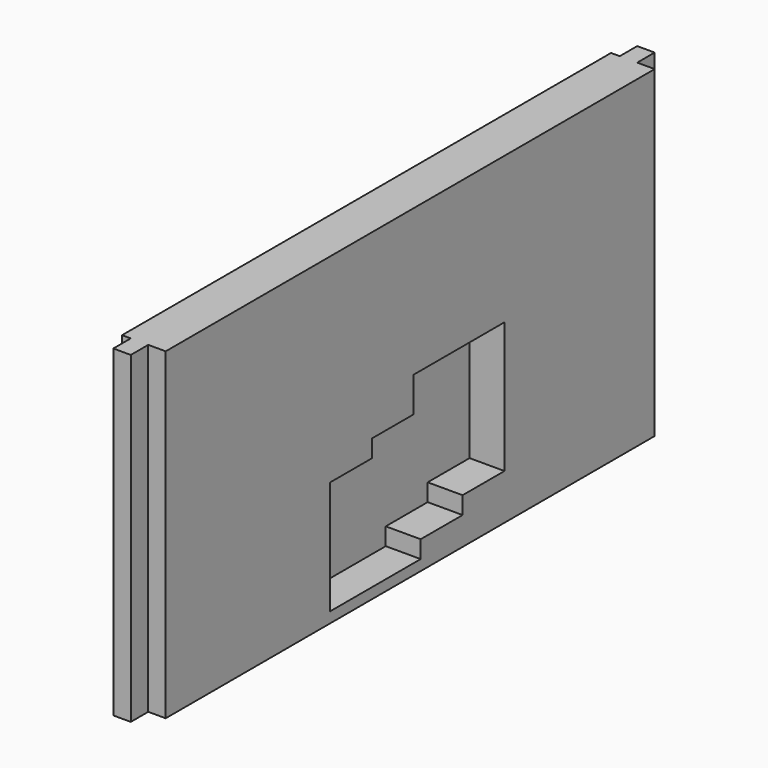
from build123d import *

# Parameters (mm, degrees)
F0_W     = 95.25
F0_H     = 46.99
F1_DEPTH = 2.54
F2_W     = 88.9
F2_H     = 46.99
F3_DEPTH = 2.54
F4_W     = 88.9
F4_H     = 46.99
F5_DEPTH = 1.27


with BuildPart() as f1:
    # F0 (on Right) → F1 (new body)
    with BuildSketch(Plane.YZ):
        with Locations((-3.81, -0.0466339131)):
            Rectangle(F0_W, F0_H)
        Polygon((-3.175, -2.9486645812), (-3.175, 2.1313354188), (13.335, 2.1313354188), (13.335, -16.9186645812), (5.715, -16.9186645812), (5.715, -19.4586645812), (-1.905, -19.4586645812), (-1.905, -21.9986645812), (-18.415, -21.9986645812), (-18.415, -5.4886645812), (-10.795, -5.4886645812), (-10.795, -2.9486645812), align=None, mode=Mode.SUBTRACT)
    extrude(amount=F1_DEPTH)

    # F2 (on face) → F3 (join)
    with BuildSketch(Plane.YZ.offset(2.54)):
        with Locations((-3.81, -0.0466339131)):
            Rectangle(F2_W, F2_H)
        Polygon((-18.415, -21.9986645812), (-18.415, -5.4886645812), (-10.795, -5.4886645812), (-10.795, -2.9486645812), (-3.175, -2.9486645812), (-3.175, 2.1313354188), (13.335, 2.1313354188), (13.335, -16.9186645812), (5.715, -16.9186645812), (5.715, -19.4586645812), (-1.905, -19.4586645812), (-1.905, -21.9986645812), align=None, mode=Mode.SUBTRACT)
    extrude(amount=F3_DEPTH)

    # F4 (on face) → F5 (join)
    with BuildSketch(Plane(origin=(0, 0, 0), x_dir=(0, -1, 0), z_dir=(-1, 0, 0))):
        with Locations((3.81, -0.0466339131)):
            Rectangle(F4_W, F4_H)
        Polygon((10.795, -2.9486645812), (10.795, -5.4886645812), (18.415, -5.4886645812), (18.415, -21.9986645812), (1.905, -21.9986645812), (1.905, -19.4586645812), (-5.715, -19.4586645812), (-5.715, -16.9186645812), (-13.335, -16.9186645812), (-13.335, 2.1313354188), (3.175, 2.1313354188), (3.175, -2.9486645812), align=None, mode=Mode.SUBTRACT)
        Polygon((18.415, -5.4886645812), (10.795, -5.4886645812), (10.795, -2.9486645812), (3.175, -2.9486645812), (3.175, 2.1313354188), (-13.335, 2.1313354188), (-13.335, -16.9186645812), (-5.715, -16.9186645812), (-5.715, -19.4586645812), (1.905, -19.4586645812), (1.905, -21.9986645812), (18.415, -21.9986645812), align=None)
    extrude(amount=F5_DEPTH)


solid = f1.part
